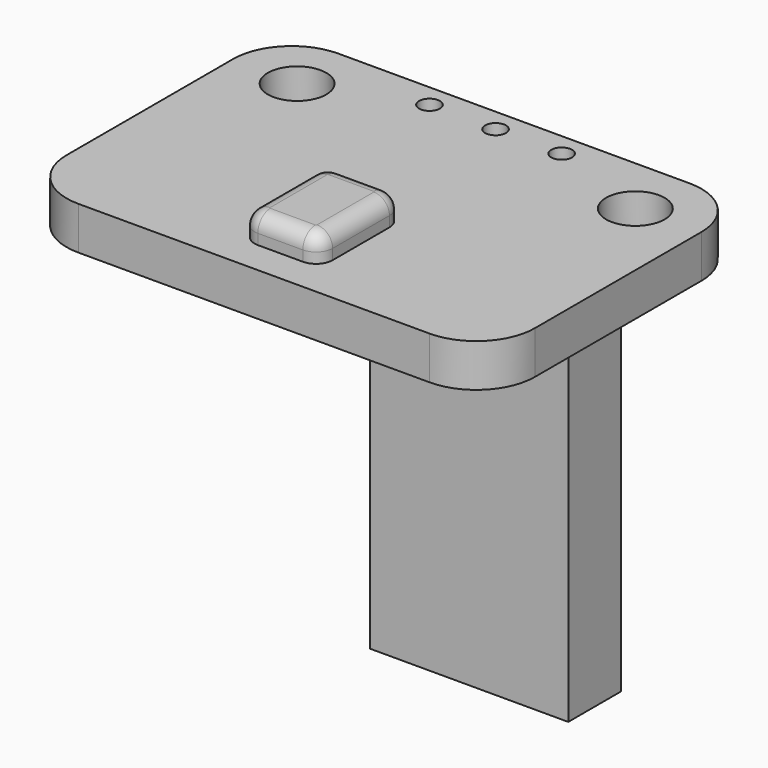
from build123d import *

# Parameters (mm, degrees)
PAD_DEPTH               = 1.65
SKETCH001_R             = 1.125
POCKET_DEPTH            = 1.651
SKETCH002_R             = 0.4
POCKET001_DEPTH         = 1.651
PAD001_DEPTH            = 1
FILLET_R                = 0.6
SKETCH004_W             = 7.62
SKETCH004_H             = 2.54
PAD002_DEPTH            = 2.54
SKETCH016_W             = 7.02
SKETCH016_H             = 0.6
PAD008_DEPTH            = 8.74
SKETCH017_W             = 1.94
SKETCH017_H             = 12.4
POCKET005_DEPTH         = 0.001
POCKET005_DEPTH_BACK    = -6.016
BODY013_PLACEMENT_ANGLE = 180
SKETCH018_W             = 7.62
SKETCH018_H             = 2.54
PAD009_DEPTH            = 14.1


with BuildPart() as mainboard003:
    # Sketch → Pad (new body)
    with BuildSketch(Plane.XY):
        with BuildLine():
            Line((-6.75, 12.5), (6.75, 12.5))
            ThreePointArc((9, 10.25), (8.34099, 11.84099), (6.75, 12.5))
            Line((9, 10.25), (9, 2.25))
            ThreePointArc((6.75, 0), (8.34099, 0.65901), (9, 2.25))
            Line((6.75, 0), (-6.75, 0))
            ThreePointArc((-9, 2.25), (-8.34099, 0.65901), (-6.75, 0))
            Line((-9, 2.25), (-9, 10.25))
            ThreePointArc((-6.75, 12.5), (-8.34099, 11.84099), (-9, 10.25))
        make_face()
    extrude(amount=-PAD_DEPTH)

    # Sketch001 → Pocket (cut, through all)
    with BuildSketch(Plane.XY):
        with Locations((-6.5, 10.2)):
            Circle(SKETCH001_R)
        with Locations((6.5, 10.2)):
            Circle(SKETCH001_R)
    extrude(amount=-POCKET_DEPTH, mode=Mode.SUBTRACT)

    # Sketch002 → Pocket001 (cut, through all)
    with BuildSketch(Plane.XY):
        with Locations((0, 11.61)):
            Circle(SKETCH002_R)
        with Locations((2.54, 11.61)):
            Circle(SKETCH002_R)
        with Locations((-2.54, 11.61)):
            Circle(SKETCH002_R)
    extrude(amount=-POCKET001_DEPTH, mode=Mode.SUBTRACT)


with BuildPart() as mic:
    # Sketch003 → Pad001 (new body)
    with BuildSketch(Plane.XY):
        with BuildLine():
            Line((-0.865, 5.27), (0.865, 5.27))
            ThreePointArc((1.5, 4.635), (1.314013, 5.084013), (0.865, 5.27))
            Line((1.5, 4.635), (1.5, 1.905))
            ThreePointArc((0.865, 1.27), (1.314013, 1.455987), (1.5, 1.905))
            Line((0.865, 1.27), (-0.865, 1.27))
            ThreePointArc((-1.5, 1.905), (-1.314013, 1.455987), (-0.865, 1.27))
            Line((-1.5, 1.905), (-1.5, 4.635))
            ThreePointArc((-0.865, 5.27), (-1.314013, 5.084013), (-1.5, 4.635))
        make_face()
    extrude(amount=PAD001_DEPTH)

    # Fillet
    fillet_edges = [mic.edges().sort_by_distance(p)[0] for p in [
        (0, 5.27, 1),
    ]]
    fillet(fillet_edges, radius=FILLET_R)


with BuildPart() as pinblock:
    # Sketch004 → Pad002 (new body)
    with BuildSketch(Plane.XY):
        with Locations((0, 11.61)):
            Rectangle(SKETCH004_W, SKETCH004_H)
    extrude(amount=-PAD002_DEPTH)


with BuildPart() as pinblock_1:
    # Body004 placement: moved
    add(pinblock.part.moved(Location((0, 0, -1.6))))


with BuildPart() as pins002:
    # Sketch016 → Pad008 (new body)
    with BuildSketch(Plane.XY):
        with Locations((0, -5.715)):
            Rectangle(SKETCH016_W, SKETCH016_H)
    extrude(amount=PAD008_DEPTH)

    # Sketch017 → Pocket005 (cut, two sides)
    with BuildSketch(Plane.XZ) as pocket005_sk:
        with Locations((-1.27, 8.44)):
            Rectangle(SKETCH017_W, SKETCH017_H)
        with Locations((1.27, 8.44)):
            Rectangle(SKETCH017_W, SKETCH017_H)
        with Locations((3.81, 8.44)):
            Rectangle(SKETCH017_W, SKETCH017_H)
        with Locations((-3.81, 8.44)):
            Rectangle(SKETCH017_W, SKETCH017_H)
    extrude(amount=-POCKET005_DEPTH, mode=Mode.SUBTRACT)
    extrude(pocket005_sk.sketch, amount=-POCKET005_DEPTH_BACK, mode=Mode.SUBTRACT)


with BuildPart() as pins002_1:
    # Body013 placement: moved
    add(pins002.part.moved(Location((0, 5.9, -1.7))).rotate(Axis((0, 5.9, -1.7), (1, 0, 0)), BODY013_PLACEMENT_ANGLE))


with BuildPart() as jumperheader:
    # Sketch018 → Pad009 (new body)
    with BuildSketch(Plane.XY):
        with Locations((0, 11.61)):
            Rectangle(SKETCH018_W, SKETCH018_H)
    extrude(amount=-PAD009_DEPTH)


with BuildPart() as jumperheader_1:
    # Body014 placement: moved
    add(jumperheader.part.moved(Location((0, 0, -4.2))))


solid = Compound([mainboard003.part, mic.part, pinblock_1.part, pins002_1.part, jumperheader_1.part])
